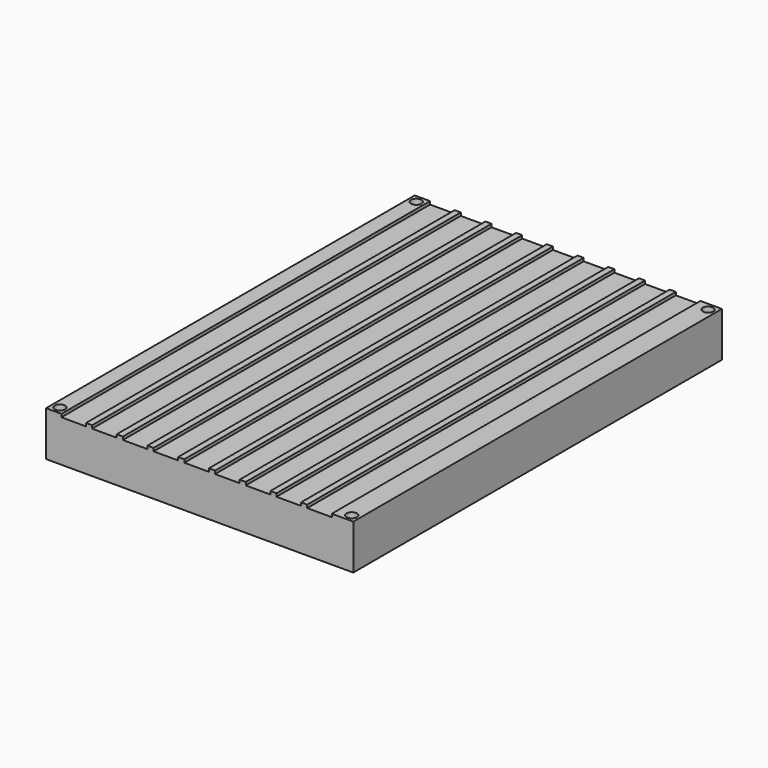
from build123d import *

# Parameters (mm, degrees)
F0_W     = 100
F0_H     = 150
F1_DEPTH = 14.6
F2_W     = 8
F2_H     = 150
F3_DEPTH = 1
F4_R     = 1.7
F5_DEPTH = 25


with BuildPart() as f1:
    # F0 (on Top) → F1 (new body)
    with BuildSketch(Plane.XY):
        with Locations((50, -75)):
            Rectangle(F0_W, F0_H)
    extrude(amount=F1_DEPTH)

    # F2 (on face) → F3 (cut)
    with BuildSketch(Plane.XY.offset(14.6)):
        with Locations((9, -75)):
            Rectangle(F2_W, F2_H)
        with Locations((19, -75)):
            Rectangle(F2_W, F2_H)
        with Locations((29, -75)):
            Rectangle(F2_W, F2_H)
        with Locations((39, -75)):
            Rectangle(F2_W, F2_H)
        with Locations((49, -75)):
            Rectangle(F2_W, F2_H)
        with Locations((59, -75)):
            Rectangle(F2_W, F2_H)
        with Locations((69, -75)):
            Rectangle(F2_W, F2_H)
        with Locations((79, -75)):
            Rectangle(F2_W, F2_H)
        with Locations((89, -75)):
            Rectangle(F2_W, F2_H)
    extrude(amount=-F3_DEPTH, mode=Mode.SUBTRACT)

    # F4 (on face) → F5 (cut)
    with BuildSketch(Plane.XY.offset(14.6)):
        with Locations((2.5, -2.5)):
            Circle(F4_R)
        with Locations((2.5, -147.5)):
            Circle(F4_R)
        with Locations((97.5, -147.5)):
            Circle(F4_R)
        with Locations((97.5, -2.5)):
            Circle(F4_R)
    extrude(amount=-F5_DEPTH, mode=Mode.SUBTRACT)


solid = f1.part
